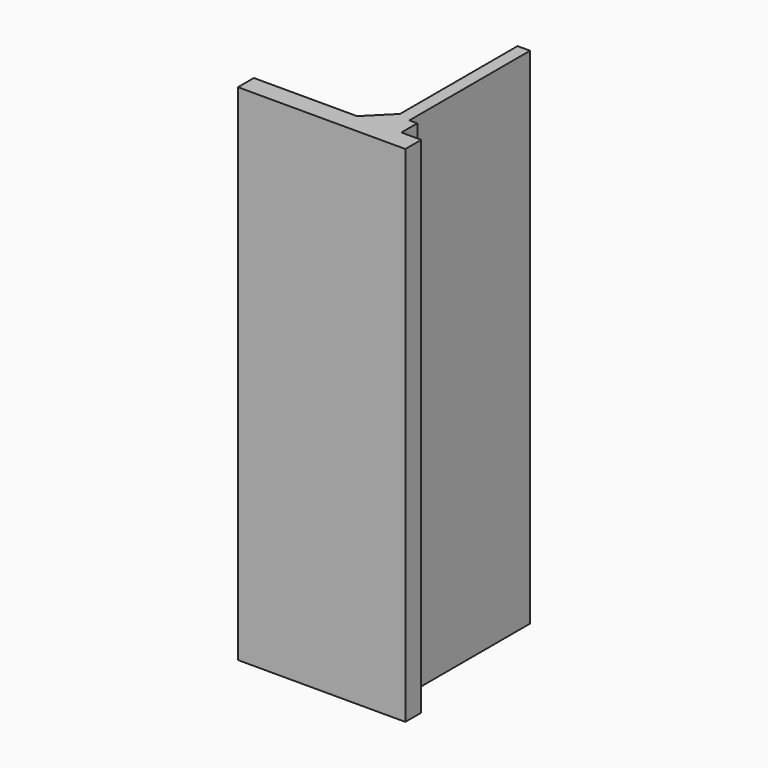
from build123d import *

# Parameters (mm, degrees)
F0_W     = 6
F0_H     = 5
F0_W_2   = 26
F0_W_3   = 2
F0_W_4   = 3.15
F0_H_2   = 37
F1_DEPTH = 127


with BuildPart() as f1:
    # F0 (on Top) → F1 (new body)
    with BuildSketch(Plane.XY):
        with Locations((-3, -2.5)):
            Rectangle(F0_W, F0_H)
        Polygon((3.15, 0), (0, 0), (0, -5), (10.15, -5), (10.15, 0), (5.15, 0), align=None)
        Polygon((0, 6), (0, 0), (3.15, 0), (3.15, 5), (3.15, 6), align=None)
        Polygon((-6, 0), (0, 0), (0, 6), align=None)
        with Locations((-19, -2.5)):
            Rectangle(F0_W_2, F0_H)
        with Locations((4.15, 2.5)):
            Rectangle(F0_W_3, F0_H)
        with Locations((1.575, 24.5)):
            Rectangle(F0_W_4, F0_H_2)
    extrude(amount=F1_DEPTH)


solid = f1.part
